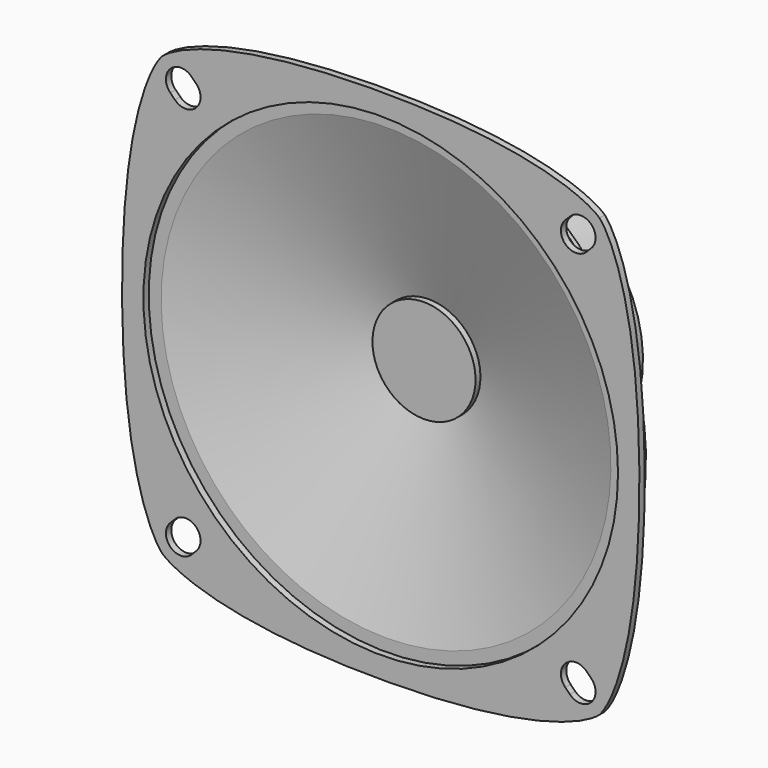
from build123d import *

# Parameters (mm, degrees)
F1_R     = 35.682679
F2_DEPTH = 1


with BuildPart() as f2:
    # F1 (on Front) → F2 (new body)
    with BuildSketch(Plane.XZ):
        with BuildLine():
            add(Edge.make_bspline(
                [(32.880465, 32.880465), (34.240388, 31.520543), (38.9, 23.525566), (38.9, 0)],
                knots=[0, 0, 0, 0, 33.426932, 33.426932, 33.426932, 33.426932], degree=3))
            add(Edge.make_bspline(
                [(32.880465, 32.880465), (31.520543, 34.240388), (23.525566, 38.9), (0, 38.9)],
                knots=[0, 0, 0, 0, 33.426932, 33.426932, 33.426932, 33.426932], degree=3))
            add(Edge.make_bspline(
                [(-32.880465, 32.880465), (-31.520543, 34.240388), (-23.525566, 38.9), (0, 38.9)],
                knots=[0, 0, 0, 0, 33.426932, 33.426932, 33.426932, 33.426932], degree=3))
            add(Edge.make_bspline(
                [(-32.880465, 32.880465), (-34.240388, 31.520543), (-38.9, 23.525566), (-38.9, 0)],
                knots=[0, 0, 0, 0, 33.426932, 33.426932, 33.426932, 33.426932], degree=3))
            add(Edge.make_bspline(
                [(-32.880465, -32.880465), (-34.240388, -31.520543), (-38.9, -23.525566), (-38.9, 0)],
                knots=[0, 0, 0, 0, 33.426932, 33.426932, 33.426932, 33.426932], degree=3))
            add(Edge.make_bspline(
                [(-32.880465, -32.880465), (-31.520543, -34.240388), (-23.525566, -38.9), (0, -38.9)],
                knots=[0, 0, 0, 0, 33.426932, 33.426932, 33.426932, 33.426932], degree=3))
            add(Edge.make_bspline(
                [(32.880465, -32.880465), (31.520543, -34.240388), (23.525566, -38.9), (0, -38.9)],
                knots=[0, 0, 0, 0, 33.426932, 33.426932, 33.426932, 33.426932], degree=3))
            add(Edge.make_bspline(
                [(32.880465, -32.880465), (34.240388, -31.520543), (38.9, -23.525566), (38.9, 0)],
                knots=[0, 0, 0, 0, 33.426932, 33.426932, 33.426932, 33.426932], degree=3))
        make_face()
        with BuildLine():
            ThreePointArc((-28.461048, -31.643028), (-31.643028, -31.643028), (-31.643028, -28.461048))
            Line((-31.643028, -28.461048), (-30.935922, -27.753941))
            ThreePointArc((-30.935922, -27.753941), (-27.753941, -27.753941), (-27.753941, -30.935922))
            Line((-27.753941, -30.935922), (-28.461048, -31.643028))
        make_face(mode=Mode.SUBTRACT)
        with BuildLine():
            ThreePointArc((27.753941, -30.935922), (27.753941, -27.753941), (30.935922, -27.753941))
            Line((30.935922, -27.753941), (31.643028, -28.461048))
            ThreePointArc((31.643028, -28.461048), (31.643028, -31.643028), (28.461048, -31.643028))
            Line((28.461048, -31.643028), (27.753941, -30.935922))
        make_face(mode=Mode.SUBTRACT)
        with BuildLine():
            ThreePointArc((-31.643028, 28.461048), (-31.643028, 31.643028), (-28.461048, 31.643028))
            Line((-28.461048, 31.643028), (-27.753941, 30.935922))
            ThreePointArc((-27.753941, 30.935922), (-27.753941, 27.753941), (-30.935922, 27.753941))
            Line((-30.935922, 27.753941), (-31.643028, 28.461048))
        make_face(mode=Mode.SUBTRACT)
        Circle(F1_R, mode=Mode.SUBTRACT)
        with BuildLine():
            Line((27.753941, 30.935922), (28.461048, 31.643028))
            ThreePointArc((28.461048, 31.643028), (31.643028, 31.643028), (31.643028, 28.461048))
            Line((31.643028, 28.461048), (30.935922, 27.753941))
            ThreePointArc((30.935922, 27.753941), (27.753941, 27.753941), (27.753941, 30.935922))
        make_face(mode=Mode.SUBTRACT)
    extrude(amount=F2_DEPTH)

    # F3 (on Right) → F4 (revolve)
    with BuildSketch(Plane.YZ):
        Polygon((1.5, -35.814233), (4.094791, -35.814233), (12.356458, -20.986004), (16.8, -17.457943), (16.8, -18), (17.8, -18), (17.8, -20), (23.3, -20), (23.3, -17.5), (24.5, -17.5), (24.5, 0), (7.131862, 0), (7.131862, -7.75), (8.055676, -7.75), (0, -33.814233), (0, -37.814233), (1.5, -37.814233), align=None)
    revolve(axis=Axis((0, 18.051954, 0), (0, 1, 0)))


solid = f2.part
